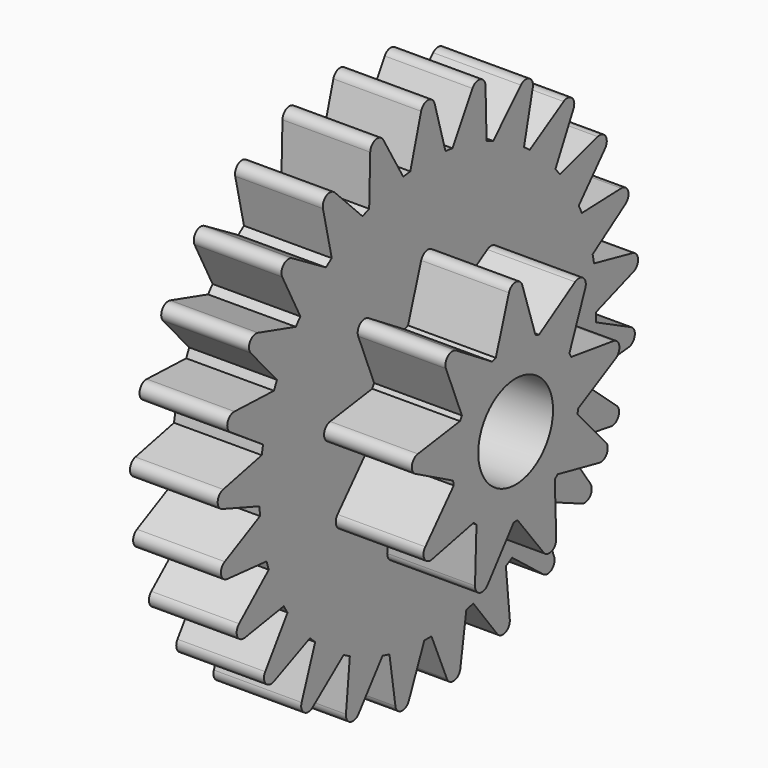
from build123d import *

# Parameters (mm, degrees)
F1_DEPTH = 5
F3_DEPTH = 5
F4_R     = 2.66357
F5_DEPTH = 10.001


with BuildPart() as f1:
    # F0 (on Right) → F1 (new body)
    with BuildSketch(Plane.YZ):
        with BuildLine():
            Line((1.251901, 11.934519), (0.480814, 14.637179))
            ThreePointArc((0.480814, 14.637179), (0, 15), (-0.480814, 14.637179))
            Line((-0.480814, 14.637179), (-1.251901, 11.934519))
            ThreePointArc((-1.251901, 11.934519), (0, 12), (1.251901, 11.934519))
        make_face()
        with BuildLine():
            ThreePointArc((1.755424, 11.870909), (1.503999, 11.905376), (1.251901, 11.934519))
            ThreePointArc((1.251901, 11.934519), (0, 12), (-1.251901, 11.934519))
            ThreePointArc((-1.251901, 11.934519), (-1.503999, 11.905376), (-1.755424, 11.870909))
            ThreePointArc((-1.755424, 11.870909), (-2.984279, 11.622998), (-4.180564, 11.248239))
            ThreePointArc((-4.180564, 11.248239), (-4.417495, 11.157318), (-4.652449, 11.061407))
            ThreePointArc((-4.652449, 11.061407), (-5.781044, 10.51568), (-6.846547, 9.855191))
            ThreePointArc((-6.846547, 9.855191), (-7.053423, 9.708204), (-7.257144, 9.556875))
            ThreePointArc((-7.257144, 9.556875), (-8.214565, 8.747624), (-9.082337, 7.842905))
            ThreePointArc((-9.082337, 7.842905), (-9.246159, 7.649088), (-9.405846, 7.45185))
            ThreePointArc((-9.405846, 7.45185), (-10.131935, 6.429922), (-10.74745, 5.33782))
            ThreePointArc((-10.74745, 5.33782), (-10.857925, 5.109351), (-10.963544, 4.878598))
            ThreePointArc((-10.963544, 4.878598), (-11.412678, 3.708204), (-11.737261, 2.497341))
            ThreePointArc((-11.737261, 2.497341), (-11.787447, 2.248576), (-11.832361, 1.998805))
            ThreePointArc((-11.832361, 1.998805), (-11.976321, 0.753486), (-11.989576, -0.500056))
            ThreePointArc((-11.989576, -0.500056), (-11.976321, -0.753486), (-11.957709, -1.00658))
            ThreePointArc((-11.957709, -1.00658), (-11.787447, -2.248576), (-11.488543, -3.466032))
            ThreePointArc((-11.488543, -3.466032), (-11.412678, -3.708204), (-11.331709, -3.948717))
            ThreePointArc((-11.331709, -3.948717), (-10.857925, -5.109351), (-10.265642, -6.214225))
            ThreePointArc((-10.265642, -6.214225), (-10.131935, -6.429922), (-9.993697, -6.642743))
            ThreePointArc((-9.993697, -6.642743), (-9.246159, -7.649088), (-8.397713, -8.571955))
            ThreePointArc((-8.397713, -8.571955), (-8.214565, -8.747624), (-8.027743, -8.91938))
            ThreePointArc((-8.027743, -8.91938), (-7.053423, -9.708204), (-6.002125, -10.391077))
            ThreePointArc((-6.002125, -10.391077), (-5.781044, -10.51568), (-5.557377, -10.63558))
            ThreePointArc((-5.557377, -10.63558), (-4.417495, -11.157318), (-3.229402, -11.557291))
            ThreePointArc((-3.229402, -11.557291), (-2.984279, -11.622998), (-2.737821, -11.683507))
            ThreePointArc((-2.737821, -11.683507), (-1.503999, -11.905376), (-0.253763, -11.997317))
            ThreePointArc((-0.253763, -11.997317), (0, -12), (0.253763, -11.997317))
            ThreePointArc((0.253763, -11.997317), (1.503999, -11.905376), (2.737821, -11.683507))
            ThreePointArc((2.737821, -11.683507), (2.984279, -11.622998), (3.229402, -11.557291))
            ThreePointArc((3.229402, -11.557291), (4.417495, -11.157318), (5.557377, -10.63558))
            ThreePointArc((5.557377, -10.63558), (5.781044, -10.51568), (6.002125, -10.391077))
            ThreePointArc((6.002125, -10.391077), (7.053423, -9.708204), (8.027743, -8.91938))
            ThreePointArc((8.027743, -8.91938), (8.214565, -8.747624), (8.397713, -8.571955))
            ThreePointArc((8.397713, -8.571955), (9.246159, -7.649088), (9.993697, -6.642743))
            ThreePointArc((9.993697, -6.642743), (10.131935, -6.429922), (10.265642, -6.214225))
            ThreePointArc((10.265642, -6.214225), (10.857925, -5.109351), (11.331709, -3.948717))
            ThreePointArc((11.331709, -3.948717), (11.412678, -3.708204), (11.488543, -3.466032))
            ThreePointArc((11.488543, -3.466032), (11.787447, -2.248576), (11.957709, -1.00658))
            ThreePointArc((11.957709, -1.00658), (11.976321, -0.753486), (11.989576, -0.500056))
            ThreePointArc((11.989576, -0.500056), (11.997394, -0.250082), (12, 0))
            ThreePointArc((12, 0), (11.958017, 1.002911), (11.832361, 1.998805))
            ThreePointArc((11.832361, 1.998805), (11.787447, 2.248576), (11.737261, 2.497341))
            ThreePointArc((11.737261, 2.497341), (11.412678, 3.708204), (10.963544, 4.878598))
            ThreePointArc((10.963544, 4.878598), (10.857925, 5.109351), (10.74745, 5.33782))
            ThreePointArc((10.74745, 5.33782), (10.131935, 6.429922), (9.405846, 7.45185))
            ThreePointArc((9.405846, 7.45185), (9.246159, 7.649088), (9.082337, 7.842905))
            ThreePointArc((9.082337, 7.842905), (8.214565, 8.747624), (7.257144, 9.556875))
            ThreePointArc((7.257144, 9.556875), (7.053423, 9.708204), (6.846547, 9.855191))
            ThreePointArc((6.846547, 9.855191), (5.781044, 10.51568), (4.652449, 11.061407))
            ThreePointArc((4.652449, 11.061407), (4.417495, 11.157318), (4.180564, 11.248239))
            ThreePointArc((4.180564, 11.248239), (2.984279, 11.622998), (1.755424, 11.870909))
        make_face()
        with BuildLine():
            Line((3.17441, 14.296899), (1.755424, 11.870909))
            ThreePointArc((1.755424, 11.870909), (2.984279, 11.622998), (4.180564, 11.248239))
            Line((4.180564, 11.248239), (4.105827, 14.057752))
            ThreePointArc((4.105827, 14.057752), (3.730348, 14.528747), (3.17441, 14.296899))
        make_face()
        with BuildLine():
            ThreePointArc((-4.180564, 11.248239), (-2.984279, 11.622998), (-1.755424, 11.870909))
            Line((-1.755424, 11.870909), (-3.17441, 14.296899))
            ThreePointArc((-3.17441, 14.296899), (-3.730348, 14.528747), (-4.105827, 14.057752))
            Line((-4.105827, 14.057752), (-4.180564, 11.248239))
        make_face()
        with BuildLine():
            Line((6.630175, 13.058292), (4.652449, 11.061407))
            ThreePointArc((4.652449, 11.061407), (5.781044, 10.51568), (6.846547, 9.855191))
            Line((6.846547, 9.855191), (7.472855, 12.595024))
            ThreePointArc((7.472855, 12.595024), (7.226305, 13.1446), (6.630175, 13.058292))
        make_face()
        with BuildLine():
            ThreePointArc((-6.846547, 9.855191), (-5.781044, 10.51568), (-4.652449, 11.061407))
            Line((-4.652449, 11.061407), (-6.630175, 13.058292))
            ThreePointArc((-6.630175, 13.058292), (-7.226305, 13.1446), (-7.472855, 12.595024))
            Line((-7.472855, 12.595024), (-6.846547, 9.855191))
        make_face()
        with BuildLine():
            Line((9.669341, 10.999184), (7.257144, 9.556875))
            ThreePointArc((7.257144, 9.556875), (8.214565, 8.747624), (9.082337, 7.842905))
            Line((9.082337, 7.842905), (10.370337, 10.340905))
            ThreePointArc((10.370337, 10.340905), (10.268207, 10.934529), (9.669341, 10.999184))
        make_face()
        with BuildLine():
            ThreePointArc((-9.082337, 7.842905), (-8.214565, 8.747624), (-7.257144, 9.556875))
            Line((-7.257144, 9.556875), (-9.669341, 10.999184))
            ThreePointArc((-9.669341, 10.999184), (-10.268207, 10.934529), (-10.370337, 10.340905))
            Line((-10.370337, 10.340905), (-9.082337, 7.842905))
        make_face()
        with BuildLine():
            Line((12.100946, 8.248957), (9.405846, 7.45185))
            ThreePointArc((9.405846, 7.45185), (10.131935, 6.429922), (10.74745, 5.33782))
            Line((10.74745, 5.33782), (12.616212, 7.437028))
            ThreePointArc((12.616212, 7.437028), (12.664919, 8.037402), (12.100946, 8.248957))
        make_face()
        with BuildLine():
            ThreePointArc((-10.74745, 5.33782), (-10.131935, 6.429922), (-9.405846, 7.45185))
            Line((-9.405846, 7.45185), (-12.100946, 8.248957))
            ThreePointArc((-12.100946, 8.248957), (-12.664919, 8.037402), (-12.616212, 7.437028))
            Line((-12.616212, 7.437028), (-10.74745, 5.33782))
        make_face()
        with BuildLine():
            Line((13.772205, 4.980418), (10.963544, 4.878598))
            ThreePointArc((10.963544, 4.878598), (11.412678, 3.708204), (11.737261, 2.497341))
            Line((11.737261, 2.497341), (14.069364, 4.065856))
            ThreePointArc((14.069364, 4.065856), (14.265848, 4.635255), (13.772205, 4.980418))
        make_face()
        with BuildLine():
            ThreePointArc((-11.737261, 2.497341), (-11.412678, 3.708204), (-10.963544, 4.878598))
            Line((-10.963544, 4.878598), (-13.772205, 4.980418))
            ThreePointArc((-13.772205, 4.980418), (-14.265848, 4.635255), (-14.069364, 4.065856))
            Line((-14.069364, 4.065856), (-11.737261, 2.497341))
        make_face()
        with BuildLine():
            Line((14.578106, 1.398941), (11.832361, 1.998805))
            ThreePointArc((11.832361, 1.998805), (11.958017, 1.002911), (12, 0))
            ThreePointArc((12, 0), (11.997394, -0.250082), (11.989576, -0.500056))
            Line((11.989576, -0.500056), (14.638487, 0.439211))
            ThreePointArc((14.638487, 0.439211), (14.970401, 0.941858), (14.578106, 1.398941))
        make_face()
        with BuildLine():
            ThreePointArc((-11.989576, -0.500056), (-11.976321, 0.753486), (-11.832361, 1.998805))
            Line((-11.832361, 1.998805), (-14.578106, 1.398941))
            ThreePointArc((-14.578106, 1.398941), (-14.970401, 0.941858), (-14.638487, 0.439211))
            Line((-14.638487, 0.439211), (-11.989576, -0.500056))
        make_face()
        with BuildLine():
            ThreePointArc((-11.488543, -3.466032), (-11.787447, -2.248576), (-11.957709, -1.00658))
            Line((-11.957709, -1.00658), (-14.46801, -2.270437))
            ThreePointArc((-14.46801, -2.270437), (-14.734309, -2.81072), (-14.287819, -3.215031))
            Line((-14.287819, -3.215031), (-11.488543, -3.466032))
        make_face()
        with BuildLine():
            Line((14.46801, -2.270437), (11.957709, -1.00658))
            ThreePointArc((11.957709, -1.00658), (11.787447, -2.248576), (11.488543, -3.466032))
            Line((11.488543, -3.466032), (14.287819, -3.215031))
            ThreePointArc((14.287819, -3.215031), (14.734309, -2.81072), (14.46801, -2.270437))
        make_face()
        with BuildLine():
            ThreePointArc((-10.265642, -6.214225), (-10.857925, -5.109351), (-11.331709, -3.948717))
            Line((-11.331709, -3.948717), (-13.448836, -5.797155))
            ThreePointArc((-13.448836, -5.797155), (-13.572406, -6.386689), (-13.039395, -6.667261))
            Line((-13.039395, -6.667261), (-10.265642, -6.214225))
        make_face()
        with BuildLine():
            Line((13.448836, -5.797155), (11.331709, -3.948717))
            ThreePointArc((11.331709, -3.948717), (10.857925, -5.109351), (10.265642, -6.214225))
            Line((10.265642, -6.214225), (13.039395, -6.667261))
            ThreePointArc((13.039395, -6.667261), (13.572406, -6.386689), (13.448836, -5.797155))
        make_face()
        with BuildLine():
            ThreePointArc((-8.397713, -8.571955), (-9.246159, -7.649088), (-9.993697, -6.642743))
            Line((-9.993697, -6.642743), (-11.584623, -8.959616))
            ThreePointArc((-11.584623, -8.959616), (-11.557699, -9.56136), (-10.971658, -9.700563))
            Line((-10.971658, -9.700563), (-8.397713, -8.571955))
        make_face()
        with BuildLine():
            Line((11.584623, -8.959616), (9.993697, -6.642743))
            ThreePointArc((9.993697, -6.642743), (9.246159, -7.649088), (8.397713, -8.571955))
            Line((8.397713, -8.571955), (10.971658, -9.700563))
            ThreePointArc((10.971658, -9.700563), (11.557699, -9.56136), (11.584623, -8.959616))
        make_face()
        with BuildLine():
            ThreePointArc((-6.002125, -10.391077), (-7.053423, -9.708204), (-8.027743, -8.91938))
            Line((-8.027743, -8.91938), (-8.992505, -11.559112))
            ThreePointArc((-8.992505, -11.559112), (-8.816779, -12.135255), (-8.214532, -12.124342))
            Line((-8.214532, -12.124342), (-6.002125, -10.391077))
        make_face()
        with BuildLine():
            Line((8.992505, -11.559112), (8.027743, -8.91938))
            ThreePointArc((8.027743, -8.91938), (7.053423, -9.708204), (6.002125, -10.391077))
            Line((6.002125, -10.391077), (8.214532, -12.124342))
            ThreePointArc((8.214532, -12.124342), (8.816779, -12.135255), (8.992505, -11.559112))
        make_face()
        with BuildLine():
            ThreePointArc((-3.229402, -11.557291), (-4.417495, -11.157318), (-5.557377, -10.63558))
            Line((-5.557377, -10.63558), (-5.835354, -13.432306))
            ThreePointArc((-5.835354, -13.432306), (-5.521868, -13.946647), (-4.941256, -13.786305))
            Line((-4.941256, -13.786305), (-3.229402, -11.557291))
        make_face()
        with BuildLine():
            Line((5.835354, -13.432306), (5.557377, -10.63558))
            ThreePointArc((5.557377, -10.63558), (4.417495, -11.157318), (3.229402, -11.557291))
            Line((3.229402, -11.557291), (4.941256, -13.786305))
            ThreePointArc((4.941256, -13.786305), (5.521868, -13.946647), (5.835354, -13.432306))
        make_face()
        with BuildLine():
            ThreePointArc((-0.253763, -11.997317), (-1.503999, -11.905376), (-2.737821, -11.683507))
            Line((-2.737821, -11.683507), (-2.311547, -14.461499))
            ThreePointArc((-2.311547, -14.461499), (-1.879999, -14.881721), (-1.357503, -14.582023))
            Line((-1.357503, -14.582023), (-0.253763, -11.997317))
        make_face()
        with BuildLine():
            Line((2.311547, -14.461499), (2.737821, -11.683507))
            ThreePointArc((2.737821, -11.683507), (1.503999, -11.905376), (0.253763, -11.997317))
            Line((0.253763, -11.997317), (1.357503, -14.582023))
            ThreePointArc((1.357503, -14.582023), (1.879999, -14.881721), (2.311547, -14.461499))
        make_face()
    extrude(amount=F1_DEPTH)

    # F2 (on face) → F3 (join)
    with BuildSketch(Plane.YZ.offset(5)):
        with BuildLine():
            Line((1.4121, 4.272701), (0.475518, 7.154541))
            ThreePointArc((0.475518, 7.154541), (0, 7.5), (-0.475518, 7.154541))
            Line((-0.475518, 7.154541), (-1.4121, 4.272701))
            ThreePointArc((-1.4121, 4.272701), (-1.539091, 4.228617), (-1.664708, 4.180759))
            Line((-1.664708, 4.180759), (-4.234582, 5.786353))
            ThreePointArc((-4.234582, 5.786353), (-4.820907, 5.745333), (-4.963118, 5.175039))
            Line((-4.963118, 5.175039), (-3.828171, 2.365398))
            ThreePointArc((-3.828171, 2.365398), (-3.897114, 2.25), (-3.96258, 2.132594))
            Line((-3.96258, 2.132594), (-6.963274, 1.710667))
            ThreePointArc((-6.963274, 1.710667), (-7.386058, 1.302361), (-7.12842, 0.774079))
            Line((-7.12842, 0.774079), (-4.452998, -0.648701))
            ThreePointArc((-4.452998, -0.648701), (-4.431635, -0.781417), (-4.406318, -0.913436))
            Line((-4.406318, -0.913436), (-6.433773, -3.16546))
            ThreePointArc((-6.433773, -3.16546), (-6.495191, -3.75), (-5.958255, -3.989081))
            Line((-5.958255, -3.989081), (-2.994217, -3.359265))
            ThreePointArc((-2.994217, -3.359265), (-2.892544, -3.4472), (-2.78829, -3.532059))
            Line((-2.78829, -3.532059), (-2.893838, -6.560432))
            ThreePointArc((-2.893838, -6.560432), (-2.565151, -7.047695), (-2.000156, -6.885706))
            Line((-2.000156, -6.885706), (-0.134409, -4.497992))
            ThreePointArc((-0.134409, -4.497992), (0, -4.5), (0.134409, -4.497992))
            Line((0.134409, -4.497992), (2.000156, -6.885706))
            ThreePointArc((2.000156, -6.885706), (2.565151, -7.047695), (2.893838, -6.560432))
            Line((2.893838, -6.560432), (2.78829, -3.532059))
            ThreePointArc((2.78829, -3.532059), (2.892544, -3.4472), (2.994217, -3.359265))
            Line((2.994217, -3.359265), (5.958255, -3.989081))
            ThreePointArc((5.958255, -3.989081), (6.495191, -3.75), (6.433773, -3.16546))
            Line((6.433773, -3.16546), (4.406318, -0.913436))
            ThreePointArc((4.406318, -0.913436), (4.431635, -0.781417), (4.452998, -0.648701))
            Line((4.452998, -0.648701), (7.12842, 0.774079))
            ThreePointArc((7.12842, 0.774079), (7.386058, 1.302361), (6.963274, 1.710667))
            Line((6.963274, 1.710667), (3.96258, 2.132594))
            ThreePointArc((3.96258, 2.132594), (3.897114, 2.25), (3.828171, 2.365398))
            Line((3.828171, 2.365398), (4.963118, 5.175039))
            ThreePointArc((4.963118, 5.175039), (4.820907, 5.745333), (4.234582, 5.786353))
            Line((4.234582, 5.786353), (1.664708, 4.180759))
            ThreePointArc((1.664708, 4.180759), (1.539091, 4.228617), (1.4121, 4.272701))
        make_face()
    extrude(amount=F3_DEPTH)

    # F4 (on face) → F5 (cut, through all)
    with BuildSketch(Plane.YZ.offset(10)):
        Circle(F4_R)
    extrude(amount=-F5_DEPTH, mode=Mode.SUBTRACT)


solid = f1.part
